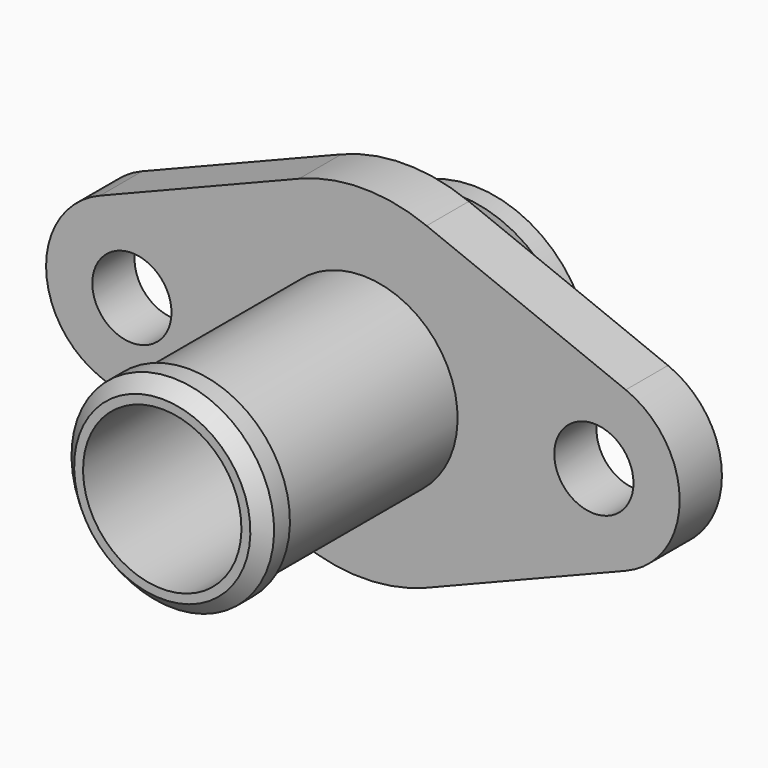
from build123d import *

# Parameters (mm, degrees)
F2_SIZE  = 1
F3_R     = 30
F4_DEPTH = 25
F3_R_2   = 3
F5_DEPTH = 25


with BuildPart() as f1:
    # F0 (on Right) → F1 (revolve)
    with BuildSketch(Plane.YZ):
        Polygon((-19, 7.675), (-19, 6), (10.5, 6), (10.5, 8.9), (9, 8.9), (9, 7), (6, 7), (6, 8.9), (4, 8.9), (4, 24), (0, 24), (0, 7.175), (-16.5, 7.175), (-16.5, 7.675), align=None)
    revolve(axis=Axis((0, -3.653569, 0), (0, 1, 0)))

    # F2
    f2_edges = [f1.edges().sort_by_distance(p)[0] for p in [
        (0, -19, -7.675),
    ]]
    chamfer(f2_edges, length=F2_SIZE)

    # F3 (on face) → F4 (cut)
    with BuildSketch(Plane.XZ):
        Circle(F3_R)
        with BuildLine():
            ThreePointArc((-19.914286, -6.035), (-24, 0), (-19.914286, 6.035))
            Line((-19.914286, 6.035), (-4.828571, 12.07))
            ThreePointArc((-4.828571, 12.07), (0, 13), (4.828571, 12.07))
            Line((4.828571, 12.07), (19.914286, 6.035))
            ThreePointArc((19.914286, 6.035), (24, 0), (19.914286, -6.035))
            Line((19.914286, -6.035), (4.828571, -12.07))
            ThreePointArc((4.828571, -12.07), (0, -13), (-4.828571, -12.07))
            Line((-4.828571, -12.07), (-19.914286, -6.035))
        make_face(mode=Mode.SUBTRACT)
    extrude(amount=-F4_DEPTH, mode=Mode.SUBTRACT)

    # F3 (on face) → F5 (cut)
    with BuildSketch(Plane.XZ):
        with Locations((17.5, 0)):
            Circle(F3_R_2)
        with Locations((-17.5, 0)):
            Circle(F3_R_2)
    extrude(amount=-F5_DEPTH, mode=Mode.SUBTRACT)


solid = f1.part
